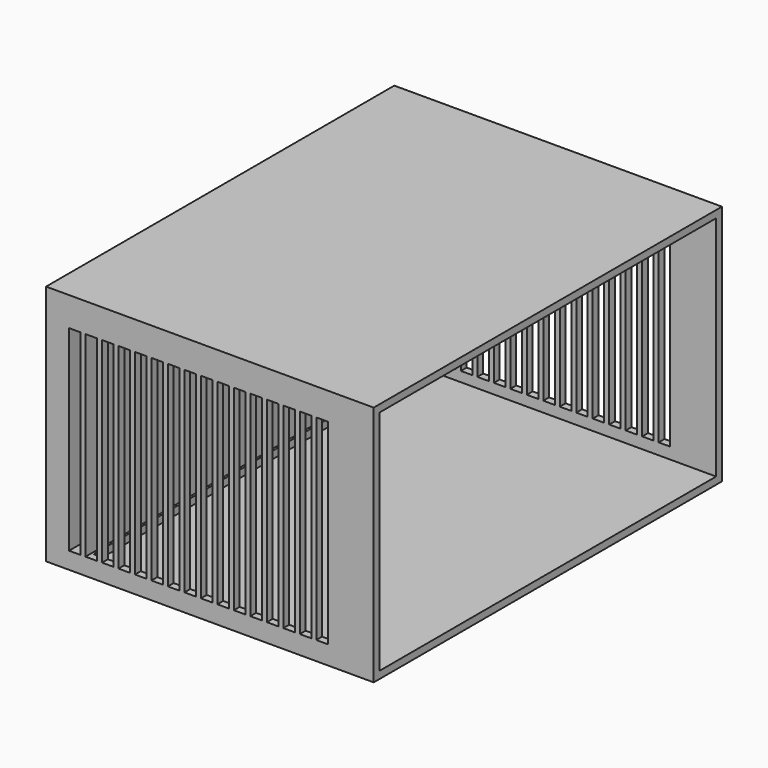
from build123d import *

# Parameters (mm, degrees)
F0_W     = 114.7212088108
F0_H     = 84.7007036209
F1_DEPTH = 152.4
F2_W     = 4.020601511
F2_H     = 68.6182938516
F3_DEPTH = 152.4
F4_T     = -2.54
F5_DEPTH = 152.401
F6_DEPTH = 152.401
F7_DEPTH = 152.401
F8_DEPTH = 152.401


with BuildPart() as f1:
    # F0 (on Front) → F1 (new body)
    with BuildSketch(Plane.XZ):
        with Locations((1.1391714215, 1.8092729151)):
            Rectangle(F0_W, F0_H)
    extrude(amount=F1_DEPTH)

    # F2 (on face) → F3 (cut)
    with BuildSketch(Plane.XZ.offset(152.4)):
        with Locations((-46.1699254811, -0.3350507468)):
            Rectangle(F2_W, F2_H)
    extrude(amount=-F3_DEPTH, mode=Mode.SUBTRACT)

    # F4
    f4_openings = [f1.faces().sort_by_distance(p)[0] for p in [
        (-56.221433, -76.2, 1.809273),
        (58.499776, -76.2, 1.809273),
    ]]
    offset(amount=F4_T, openings=f4_openings, kind=Kind.INTERSECTION)

    # F2 (on face) → F5 (cut, through all)
    with BuildSketch(Plane.XZ.offset(152.4)):
        Rectangle(F2_W, F2_H)
    extrude(amount=-F5_DEPTH, mode=Mode.SUBTRACT)

    # F2 (on face) → F6 (cut, through all)
    with BuildSketch(Plane.XZ.offset(152.4)):
        with Locations((-23.0849627405, -0.1675253734)):
            Rectangle(F2_W, F2_H)
        with Locations((23.0849627405, 0.1675253734)):
            Rectangle(F2_W, F2_H)
    extrude(amount=-F6_DEPTH, mode=Mode.SUBTRACT)

    # F2 (on face) → F7 (cut, through all)
    with BuildSketch(Plane.XZ.offset(152.4)):
        with Locations((-34.6274441108, -0.2512880601)):
            Rectangle(F2_W, F2_H)
        with Locations((-11.5424813703, -0.0837626867)):
            Rectangle(F2_W, F2_H)
        with Locations((11.5424813703, 0.0837626867)):
            Rectangle(F2_W, F2_H)
        with Locations((34.6274441108, 0.2512880601)):
            Rectangle(F2_W, F2_H)
    extrude(amount=-F7_DEPTH, mode=Mode.SUBTRACT)

    # F2 (on face) → F8 (cut, through all)
    with BuildSketch(Plane.XZ.offset(152.4)):
        with Locations((-40.3986847959, -0.2931694034)):
            Rectangle(F2_W, F2_H)
        with Locations((-28.8562034257, -0.2094067167)):
            Rectangle(F2_W, F2_H)
        with Locations((-17.3137220554, -0.12564403)):
            Rectangle(F2_W, F2_H)
        with Locations((-5.7712406851, -0.0418813433)):
            Rectangle(F2_W, F2_H)
        with Locations((5.7712406851, 0.0418813433)):
            Rectangle(F2_W, F2_H)
        with Locations((17.3137220554, 0.12564403)):
            Rectangle(F2_W, F2_H)
        with Locations((28.8562034257, 0.2094067167)):
            Rectangle(F2_W, F2_H)
        with Locations((40.3986847959, 0.2931694034)):
            Rectangle(F2_W, F2_H)
    extrude(amount=-F8_DEPTH, mode=Mode.SUBTRACT)


solid = f1.part
